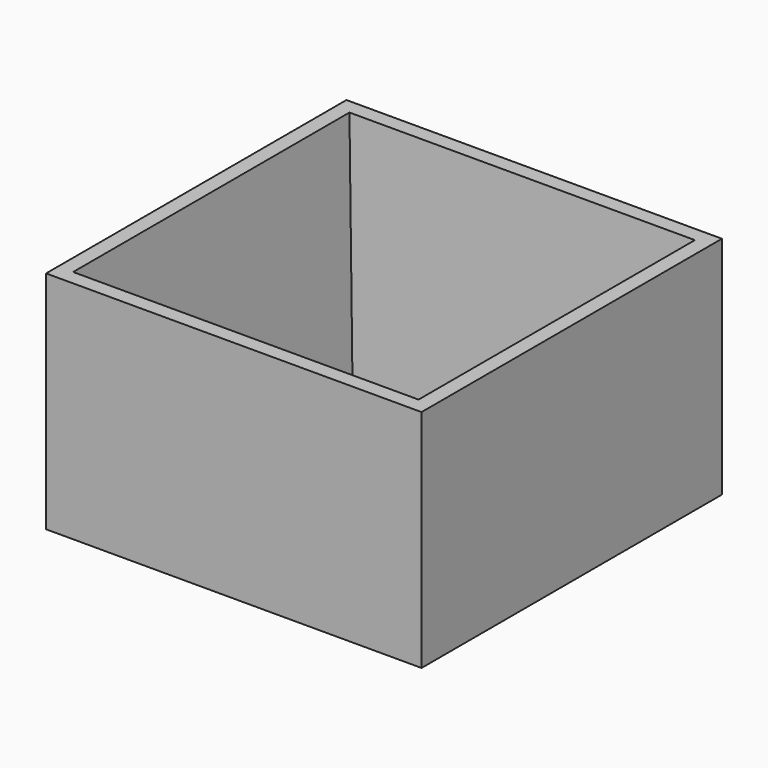
from build123d import *

# Parameters (mm, degrees)
SKETCH_W    = 25
SKETCH_H    = 25
PAD_DEPTH   = 15
SKETCH002_W = 21
SKETCH002_H = 21
SKETCH001_W = 23
SKETCH001_H = 23


with BuildPart() as part:
    # Sketch → Pad (new body)
    with BuildSketch(Plane.XY):
        Rectangle(SKETCH_W, SKETCH_H)
    extrude(amount=PAD_DEPTH)

    # Sketch002 (on Face5 of Pad) → SubtractiveLoft section 0
    with BuildSketch(Plane(origin=(0, 0, 0), x_dir=(1, 0, 0), z_dir=(0, 0, -1))):
        Rectangle(SKETCH002_W, SKETCH002_H)
    # Sketch001 (on Face6 of Pad) → SubtractiveLoft section 1
    with BuildSketch(Plane.XY.offset(15)):
        Rectangle(SKETCH001_W, SKETCH001_H)
    loft(mode=Mode.SUBTRACT)


solid = part.part
